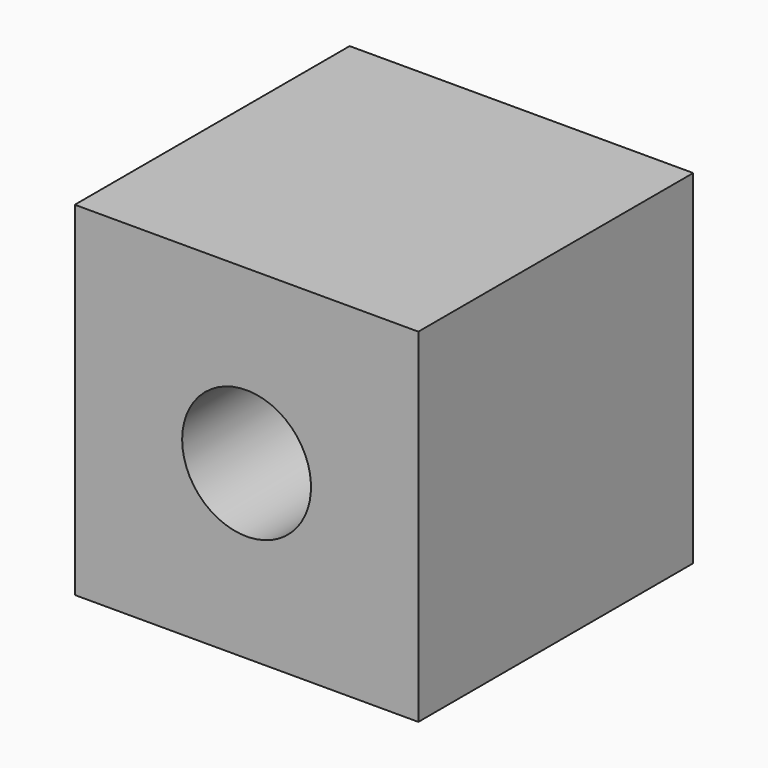
from build123d import *

# Parameters (mm, degrees)
F0_W     = 48
F0_H     = 48
F1_DEPTH = 48
F3_D     = 18


with BuildPart() as f1:
    # F0 (on Front) → F1 (new body)
    with BuildSketch(Plane.XZ):
        Rectangle(F0_W, F0_H)
    extrude(amount=F1_DEPTH)

    # F3 (through all)
    with Locations(Plane(origin=(0, 0, 0), x_dir=(1, 0, 0), z_dir=(0, 1, 0))):
        with Locations((0, 0)):
            Hole(F3_D / 2)


solid = f1.part
